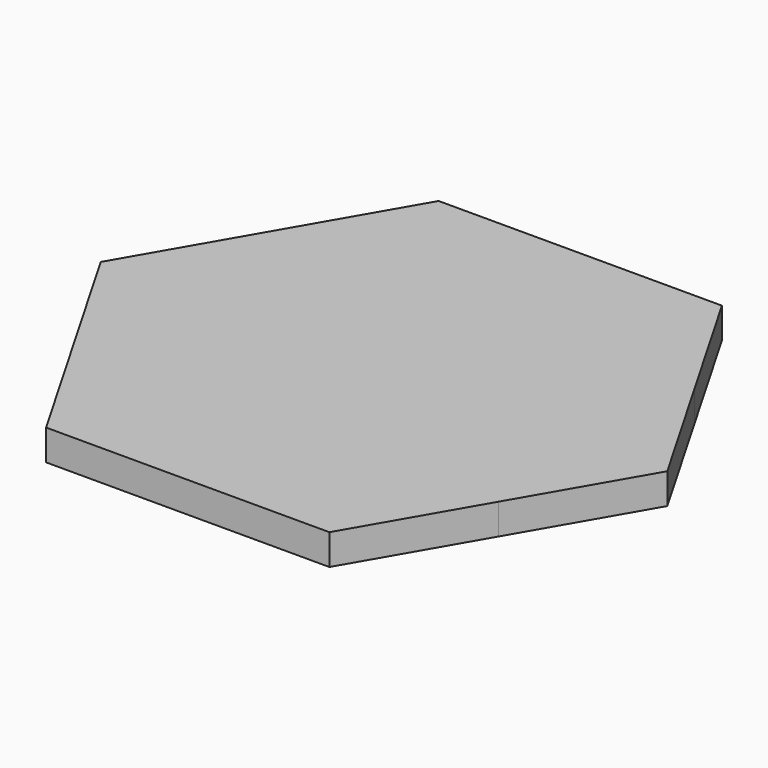
from build123d import *

# Parameters (mm, degrees)
F1_DEPTH = 6.35


with BuildPart() as f1:
    # F0 (on Top) → F1 (new body)
    with BuildSketch(Plane.XY):
        Polygon((0, 50.8), (-29.329394, 50.8), (-43.994091, 25.4), (-21.997045, 25.4), (0, 38.1), align=None)
        Polygon((29.329394, 50.8), (0, 50.8), (0, 38.1), (21.997045, 25.4), (43.994091, 25.4), align=None)
        Polygon((58.658787, 0), (43.994091, 25.4), (43.994091, 0), (43.994091, -25.4), align=None)
        Polygon((-43.994091, -25.4), (-29.329394, -50.8), (29.329394, -50.8), (43.994091, -25.4), (21.997045, -25.4), (0, -38.1), (-21.997045, -25.4), align=None)
        Polygon((-43.994091, 0), (-43.994091, 25.4), (-58.658787, 0), (-43.994091, -25.4), align=None)
        Polygon((43.994091, 0), (-43.994091, 0), (-43.994091, -25.4), (-21.997045, -25.4), (21.997045, -25.4), (43.994091, -25.4), align=None)
        Polygon((21.997045, -25.4), (-21.997045, -25.4), (0, -38.1), align=None)
        Polygon((0, 25.4), (0, 38.1), (-21.997045, 25.4), align=None)
        Polygon((-21.997045, 25.4), (-43.994091, 25.4), (-43.994091, 0), (43.994091, 0), (43.994091, 25.4), (21.997045, 25.4), (0, 25.4), align=None)
        Polygon((21.997045, 25.4), (0, 38.1), (0, 25.4), align=None)
    extrude(amount=F1_DEPTH)


solid = f1.part
